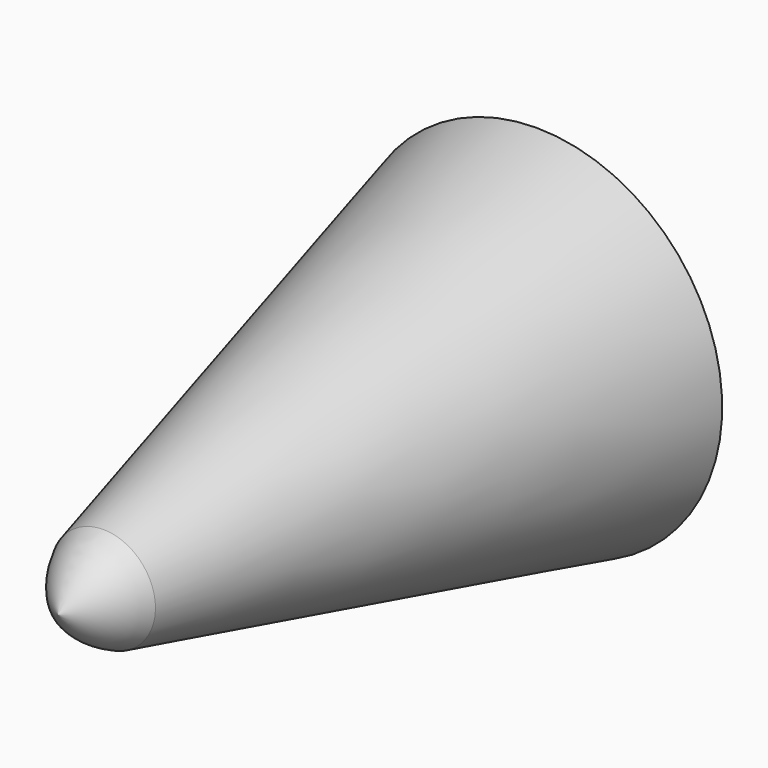
from build123d import *


with BuildPart() as f1:
    # F0 (on Right) → F1 (revolve)
    with BuildSketch(Plane.YZ):
        with BuildLine():
            Line((73.0372, 22.691168), (6.854624, 6.381891))
            ThreePointArc((6.854624, 6.381891), (2.885048, 3.773377), (0, 0))
            Line((0, 0), (73.0372, 0))
            Line((73.0372, 0), (73.0372, 22.691168))
        make_face()
    revolve(axis=Axis((0, 36.5186, 0), (0, 1, 0)))


solid = f1.part
